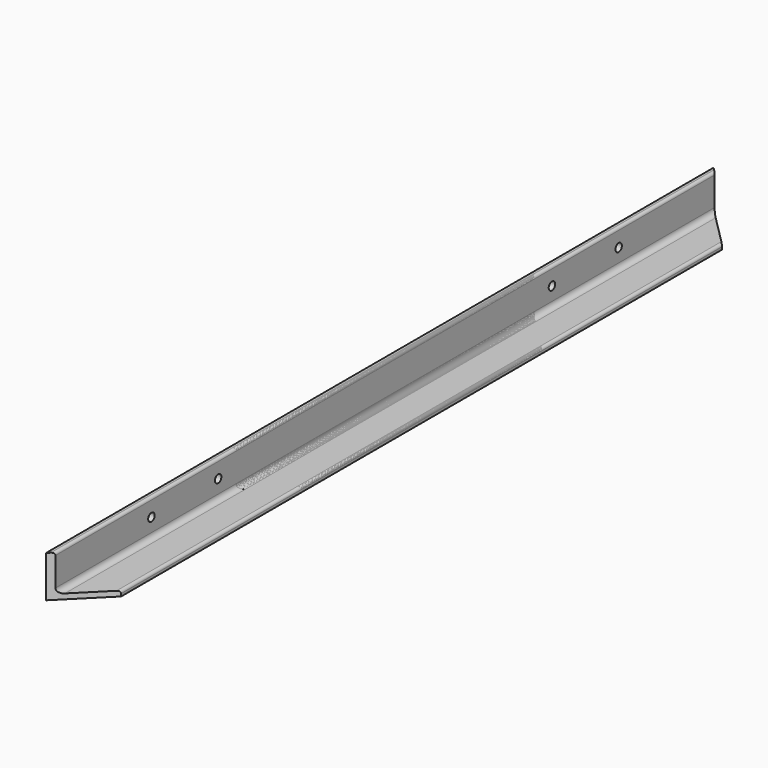
from build123d import *

# Parameters (mm, degrees)
F1_DEPTH = 233.3625
F3_DEPTH = 50.801
F4_DEPTH = 508
F6_DEPTH = 50.801
F8_D     = 9.8044


with BuildPart() as f1:
    # F0 (on Front) → F1 (new body, symmetric)
    with BuildSketch(Plane.XZ):
        with BuildLine():
            Line((0, 50.8), (0, 0))
            Line((0, 0), (50.8, 0))
            Line((50.8, 0), (50.8, 3.175))
            ThreePointArc((50.8, 3.175), (49.8700640303, 5.4200640303), (47.625, 6.35))
            Line((47.625, 6.35), (12.7, 6.35))
            ThreePointArc((12.7, 6.35), (8.2098719395, 8.2098719395), (6.35, 12.7))
            Line((6.35, 12.7), (6.35, 47.625))
            ThreePointArc((6.35, 47.625), (5.4200640303, 49.8700640303), (3.175, 50.8))
            Line((3.175, 50.8), (0, 50.8))
        make_face()
    extrude(amount=F1_DEPTH, both=True)

    # F2 (on face) → F3 (cut, through all)
    with BuildSketch(Plane(origin=(0, 0, 0), x_dir=(1, 0, 0), z_dir=(0, 0, -1))):
        Polygon((50.8, 233.3625), (0, 233.3625), (50.8, 182.5625), align=None)
        Polygon((50.8, -182.5625), (0, -233.3625), (50.8, -233.3625), align=None)
    extrude(amount=-F3_DEPTH, mode=Mode.SUBTRACT)


with BuildPart() as f4:
    # F0 (on Front) → F4 (new body, symmetric)
    with BuildSketch(Plane.XZ):
        with BuildLine():
            Line((0, 50.8), (0, 0))
            Line((0, 0), (50.8, 0))
            Line((50.8, 0), (50.8, 3.175))
            ThreePointArc((50.8, 3.175), (49.8700640303, 5.4200640303), (47.625, 6.35))
            Line((47.625, 6.35), (12.7, 6.35))
            ThreePointArc((12.7, 6.35), (8.2098719395, 8.2098719395), (6.35, 12.7))
            Line((6.35, 12.7), (6.35, 47.625))
            ThreePointArc((6.35, 47.625), (5.4200640303, 49.8700640303), (3.175, 50.8))
            Line((3.175, 50.8), (0, 50.8))
        make_face()
    extrude(amount=F4_DEPTH, both=True)

    # F5 (on face) → F6 (cut, through all)
    with BuildSketch(Plane(origin=(0, 0, 0), x_dir=(1, 0, 0), z_dir=(0, 0, -1))):
        Polygon((50.8, 508), (0, 508), (50.8, 457.2), align=None)
        Polygon((50.8, -457.2), (0, -508), (50.8, -508), align=None)
    extrude(amount=-F6_DEPTH, mode=Mode.SUBTRACT)

    # F8 (through all)
    with Locations(Plane(origin=(0, 0, 0), x_dir=(0, -1, 0), z_dir=(-1, 0, 0))):
        with Locations((355.6, 29.21), (254, 29.21), (-254, 29.21), (-355.6, 29.21)):
            Hole(F8_D / 2)


solid = Compound([f1.part, f4.part])
